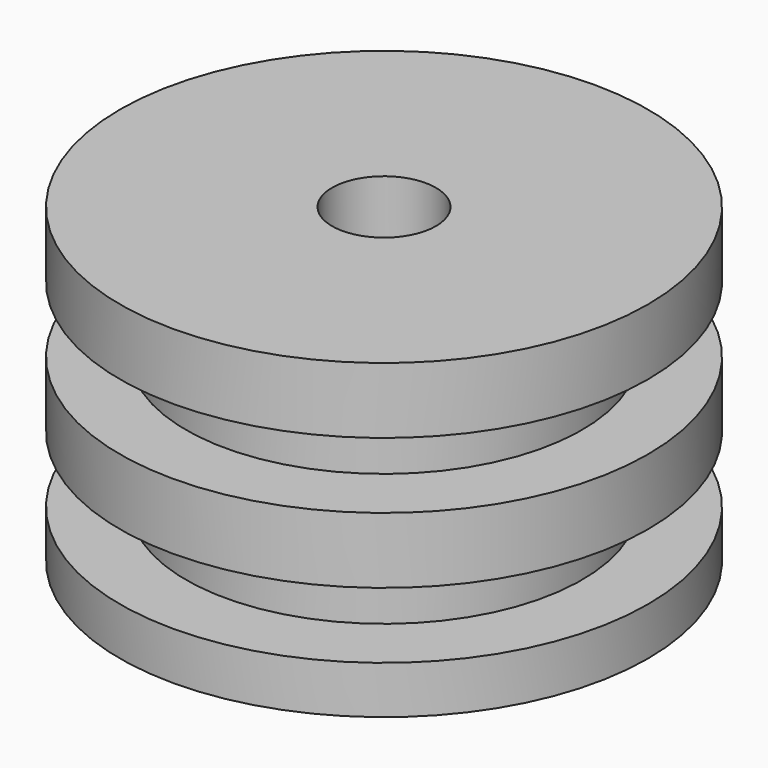
from build123d import *

# Parameters (mm, degrees)
F0_R     = 12.7
F0_R_2   = 9.525
F1_DEPTH = 15
F3_W     = 3.175
F3_H     = 3.175
F5_R     = 2.5
F6_DEPTH = 25.4


with BuildPart() as f1:
    # F0 (on Top) → F1 (new body)
    with BuildSketch(Plane.XY):
        Circle(F0_R)
        Circle(F0_R_2, mode=Mode.SUBTRACT)
        Circle(F0_R_2)
    extrude(amount=F1_DEPTH)

    # F3 (on Right) → F4 (revolve, cut)
    with BuildSketch(Plane.YZ):
        with Locations((11.1125, 3.8875)):
            Rectangle(F3_W, F3_H)
        with Locations((11.1125, 10.2375)):
            Rectangle(F3_W, F3_H)
    revolve(axis=Axis((0, 0, -0.284396), (0, 0, 1)), mode=Mode.SUBTRACT)

    # F5 (on face) → F6 (cut)
    with BuildSketch(Plane.XY):
        Circle(F5_R)
    extrude(amount=F6_DEPTH, mode=Mode.SUBTRACT)


solid = f1.part
